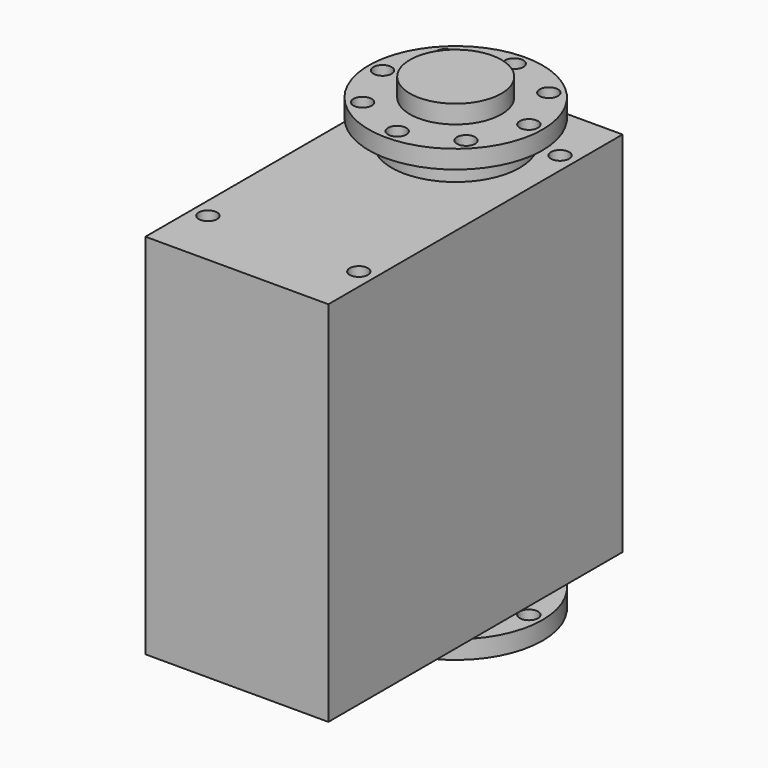
from build123d import *

# Parameters (mm, degrees)
F0_W          = 20
F0_H          = 40.2
F1_DEPTH      = 40.2
F2_R          = 1
F3_DEPTH      = 40.201
F4_R          = 7
F5_DEPTH      = 2
F5_DEPTH_BACK = 42.2
F6_R          = 3
F7_DEPTH      = 2.5
F8_R          = 9.5
F8_R_2        = 1
F9_DEPTH      = 2
F12_R         = 5
F13_DEPTH     = 2


with BuildPart() as f1:
    # F0 (on Top) → F1 (new body)
    with BuildSketch(Plane.XY):
        with Locations((10, 20.1)):
            Rectangle(F0_W, F0_H)
    extrude(amount=F1_DEPTH)

    # F2 (on face) → F3 (cut, through all)
    with BuildSketch(Plane.XY.offset(40.2)):
        with Locations((1.75, 33.85)):
            Circle(F2_R)
        with Locations((18.25, 33.85)):
            Circle(F2_R)
        with Locations((1.75, 6.35)):
            Circle(F2_R)
        with Locations((18.25, 6.35)):
            Circle(F2_R)
    extrude(amount=-F3_DEPTH, mode=Mode.SUBTRACT)

    # F4 (on face) → F5 (join, two sides)
    with BuildSketch(Plane.XY.offset(40.2)) as f5_sk:
        with Locations((10, 29.9)):
            Circle(F4_R)
    extrude(amount=F5_DEPTH)
    extrude(f5_sk.sketch, amount=-F5_DEPTH_BACK)

    # F6 (on face) → F7 (join)
    with BuildSketch(Plane.XY.offset(42.2)):
        with Locations((10, 29.9)):
            Circle(F6_R)
    extrude(amount=F7_DEPTH)

    # F8 (on face) → F9 (join)
    with BuildSketch(Plane.XY.offset(44.7)):
        with Locations((10, 29.9)):
            Circle(F8_R)
        with Locations((4.343146, 24.243146)):
            Circle(F8_R_2, mode=Mode.SUBTRACT)
        with Locations((10, 21.9)):
            Circle(F8_R_2, mode=Mode.SUBTRACT)
        with Locations((15.656854, 24.243146)):
            Circle(F8_R_2, mode=Mode.SUBTRACT)
        with Locations((2, 29.9)):
            Circle(F8_R_2, mode=Mode.SUBTRACT)
        with Locations((4.343146, 35.556854)):
            Circle(F8_R_2, mode=Mode.SUBTRACT)
        with Locations((18, 29.9)):
            Circle(F8_R_2, mode=Mode.SUBTRACT)
        with Locations((10, 37.9)):
            Circle(F8_R_2, mode=Mode.SUBTRACT)
        with Locations((15.656854, 35.556854)):
            Circle(F8_R_2, mode=Mode.SUBTRACT)
    extrude(amount=-F9_DEPTH)

    # F11: F1 across plane


with BuildPart() as f1_1:
    add(f1.part)
    add(f1.part.mirror(Plane.XY.offset(20.1)))

    # F12 (on face) → F13 (join)
    with BuildSketch(Plane.XY.offset(44.7)):
        with Locations((10, 29.9)):
            Circle(F12_R)
    extrude(amount=F13_DEPTH)


solid = f1_1.part
